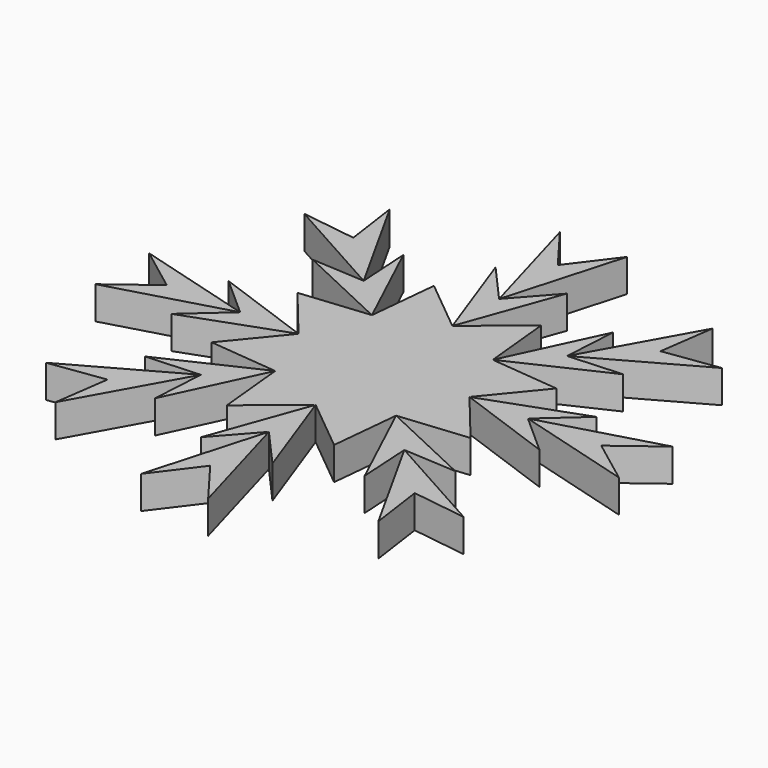
from build123d import *

# Parameters (mm, degrees)
F1_DEPTH = 2.5


with BuildPart() as f1:
    # F0 (on Top) → F1 (new body, symmetric)
    with BuildSketch(Plane.XY):
        Polygon((24.607926, 31.844801), (15.514898, 15.514898), (31.844801, 24.607926), (23.425961, 23.425961), align=None)
        Polygon((15.994938, 23.675581), (9.216772, 9.216772), (23.675581, 15.994938), (15.514898, 15.514898), align=None)
        Polygon((39.918106, 5.117244), (21.94138, 0), (39.918106, -5.117244), (33.129312, 0), align=None)
        Polygon((28.051293, 5.431035), (13.034483, 0), (28.051293, -5.431035), (21.94138, 0), align=None)
        Polygon((31.844801, -24.607926), (15.514898, -15.514898), (24.607926, -31.844801), (23.425961, -23.425961), align=None)
        Polygon((23.675581, -15.994938), (9.216772, -9.216772), (15.994938, -23.675581), (15.514898, -15.514898), align=None)
        Polygon((5.117244, -39.918106), (0, -21.94138), (-5.117244, -39.918106), (0, -33.129312), align=None)
        Polygon((5.431035, -28.051293), (0, -13.034483), (-5.431035, -28.051293), (0, -21.94138), align=None)
        Polygon((-24.607926, -31.844801), (-15.514898, -15.514898), (-31.844801, -24.607926), (-23.425961, -23.425961), align=None)
        Polygon((-15.994938, -23.675581), (-9.216772, -9.216772), (-23.675581, -15.994938), (-15.514898, -15.514898), align=None)
        Polygon((-39.918106, -5.117244), (-21.94138, 0), (-39.918106, 5.117244), (-33.129312, 0), align=None)
        Polygon((-28.051293, -5.431035), (-13.034483, 0), (-28.051293, 5.431035), (-21.94138, 0), align=None)
        Polygon((-31.844801, 24.607926), (-15.514898, 15.514898), (-24.607926, 31.844801), (-23.425961, 23.425961), align=None)
        Polygon((-23.675581, 15.994938), (-9.216772, 9.216772), (-15.994938, 23.675581), (-15.514898, 15.514898), align=None)
        Polygon((-5.431035, 28.051293), (0, 13.034483), (5.431035, 28.051293), (0, 21.94138), align=None)
        Polygon((-5.117244, 39.918106), (0, 21.94138), (5.117244, 39.918106), (0, 33.129312), align=None)
        Polygon((8.176121, 19.738902), (0, 13.034483), (-8.176121, 19.738902), (-9.216772, 9.216772), (-19.738902, 8.176121), (-13.034483, 0), (-19.738902, -8.176121), (-9.216772, -9.216772), (-8.176121, -19.738902), (0, -13.034483), (8.176121, -19.738902), (9.216772, -9.216772), (19.738902, -8.176121), (13.034483, 0), (19.738902, 8.176121), (9.216772, 9.216772), align=None)
    extrude(amount=F1_DEPTH, both=True)


solid = f1.part
